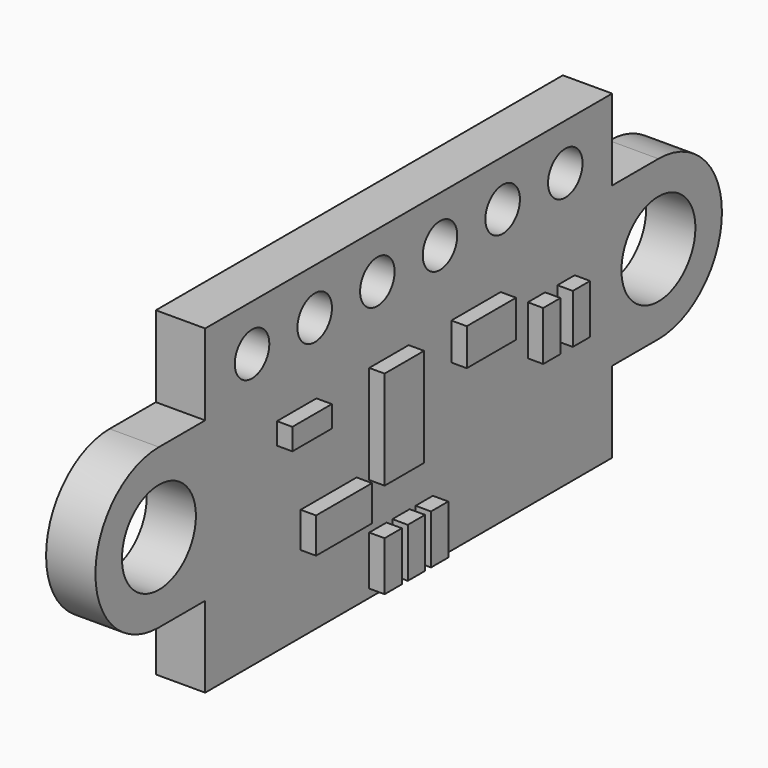
from build123d import *

# Parameters (mm, degrees)
PAD052_DEPTH            = 1.6
SKETCH131_R             = 1.5
POCKET064_DEPTH         = 1.6
SKETCH132_W             = 4.4
SKETCH132_H             = 2.35
PAD053_DEPTH            = 1
SKETCH133_W             = 2.27
SKETCH133_H             = 1.15
SKETCH133_W_2           = 1.6
SKETCH133_H_2           = 3.2
SKETCH133_W_3           = 2
SKETCH133_H_3           = 1.2
SKETCH133_W_4           = 0.7
SKETCH133_H_4           = 1.6
SKETCH133_H_5           = 0.7
PAD054_DEPTH            = 0.5
SKETCH134_R             = 0.7
POCKET065_DEPTH         = 1.6
BODY031_ROLL_ANGLE      = -180
BODY031_PLACEMENT_ANGLE = 90


with BuildPart() as part:
    # Sketch130 → Pad052 (new body)
    with BuildSketch(Plane.XZ):
        Polygon((-8.25, -5.2), (8.25, -5.2), (8.25, -2.575), (12.75, -2.575), (12.75, 2.575), (8.25, 2.575), (8.25, 5.2), (-8.25, 5.2), (-8.25, 2.575), (-12.75, 2.575), (-12.75, -2.575), (-8.25, -2.575), align=None)
    extrude(amount=PAD052_DEPTH)

    # Sketch131 (on Face14 of Pad052) → Pocket064 (cut)
    with BuildSketch(Plane.XZ.offset(1.6)):
        with Locations((-10.125, 0)):
            Circle(SKETCH131_R)
        with Locations((10.125, 0)):
            Circle(SKETCH131_R)
        with BuildLine():
            Line((-12.755, 2.575), (-12.755, -2.575))
            Line((-12.755, -2.575), (-10.125, -2.575))
            ThreePointArc((-10.125, 2.575), (-12.7, 0), (-10.125, -2.575))
            Line((-10.125, 2.575), (-12.755, 2.575))
        make_face()
        with BuildLine():
            Line((10.125, -2.575), (12.755, -2.575))
            Line((12.755, -2.575), (12.755, 2.575))
            Line((12.755, 2.575), (10.125, 2.575))
            ThreePointArc((10.125, -2.575), (12.7, 0), (10.125, 2.575))
        make_face()
    extrude(amount=-POCKET064_DEPTH, mode=Mode.SUBTRACT)

    # Sketch132 (on Face4 of Pocket064) → Pad053 (join)
    with BuildSketch(Plane.XZ.offset(1.6)):
        with Locations((0, 2.475)):
            Rectangle(SKETCH132_W, SKETCH132_H)
    extrude(amount=PAD053_DEPTH)

    # Sketch133 (on Face2 of Pad053) → Pad054 (join)
    with BuildSketch(Plane(origin=(0, 0, 0), x_dir=(1, 0, 0), z_dir=(0, 1, 0))):
        with Locations((-3.245, -2.125)):
            Rectangle(SKETCH133_W, SKETCH133_H)
        with Locations((-0.8, -0.23)):
            Rectangle(SKETCH133_W_2, SKETCH133_H_2)
        with Locations((2.73, 0.77)):
            Rectangle(SKETCH133_W_3, SKETCH133_H_3)
        with Locations((-1.25, -4.13)):
            Rectangle(SKETCH133_W_4, SKETCH133_H_4)
        with Locations((-0.31, -4.13)):
            Rectangle(SKETCH133_W_4, SKETCH133_H_4)
        with Locations((0.63, -4.13)):
            Rectangle(SKETCH133_W_4, SKETCH133_H_4)
        with Locations((-4.54, 1.02)):
            Rectangle(SKETCH133_W_2, SKETCH133_H_5)
        with Locations((5.18, -0.17)):
            Rectangle(SKETCH133_W_4, SKETCH133_H_4)
        with Locations((6.38, -0.17)):
            Rectangle(SKETCH133_W_4, SKETCH133_H_4)
    extrude(amount=PAD054_DEPTH)

    # Sketch134 (on Face2 of Pad054) → Pocket065 (cut)
    with BuildSketch(Plane(origin=(0, 0, 0), x_dir=(1, 0, 0), z_dir=(0, 1, 0))):
        with Locations((-6.35, 3.7)):
            Circle(SKETCH134_R)
        with Locations((-3.81, 3.7)):
            Circle(SKETCH134_R)
        with Locations((-1.27, 3.7)):
            Circle(SKETCH134_R)
        with Locations((1.27, 3.7)):
            Circle(SKETCH134_R)
        with Locations((3.81, 3.7)):
            Circle(SKETCH134_R)
        with Locations((6.35, 3.7)):
            Circle(SKETCH134_R)
    extrude(amount=-POCKET065_DEPTH, mode=Mode.SUBTRACT)


with BuildPart() as part_1:
    # Body031 roll: moved
    add(part.part.rotate(Axis((0, 0, 0), (1, 0, 0)), BODY031_ROLL_ANGLE))


with BuildPart() as part_2:
    # Body031 placement: moved
    add(part_1.part.moved(Location((17.5, -0.75, 41))).rotate(Axis((17.5, -0.75, 41), (0, 0, 1)), BODY031_PLACEMENT_ANGLE))


solid = part_2.part
